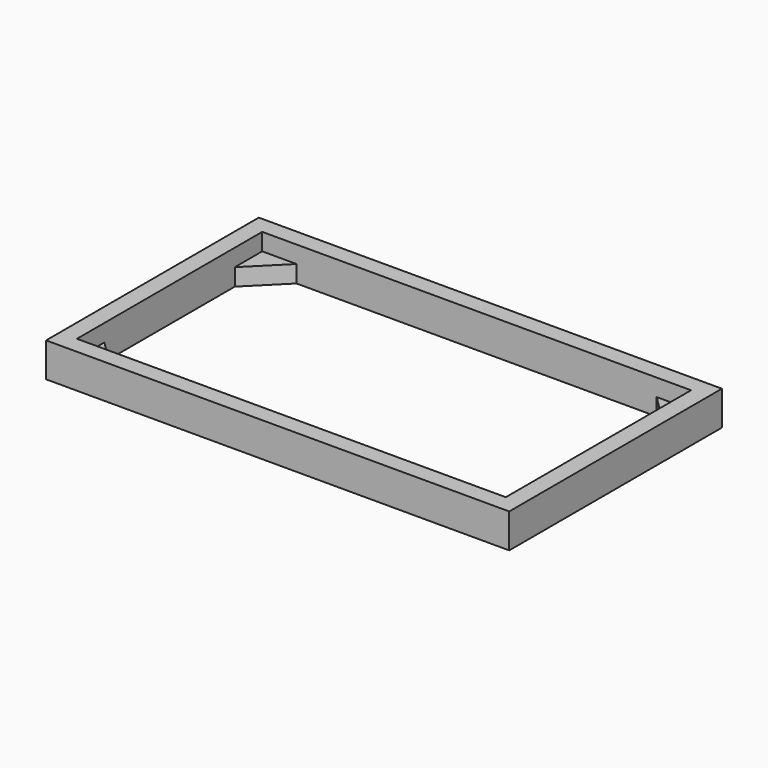
from build123d import *

# Parameters (mm, degrees)
SKETCH_W     = 54
SKETCH_H     = 31
SKETCH_W_2   = 50
SKETCH_H_2   = 27
PAD_DEPTH    = 4
PAD001_DEPTH = 2
PAD002_DEPTH = 2
PAD003_DEPTH = 2
PAD004_DEPTH = 2


with BuildPart() as part:
    # Sketch → Pad (new body)
    with BuildSketch(Plane.XY):
        with Locations((27, 15.5)):
            Rectangle(SKETCH_W, SKETCH_H)
        with Locations((27, 15.5)):
            Rectangle(SKETCH_W_2, SKETCH_H_2, mode=Mode.SUBTRACT)
    extrude(amount=PAD_DEPTH)

    # Sketch001 → Pad001 (join)
    with BuildSketch(Plane.XY):
        Polygon((2, 6), (6, 2), (2, 2), align=None)
    extrude(amount=PAD001_DEPTH)

    # Sketch002 → Pad002 (join)
    with BuildSketch(Plane.XY):
        Polygon((48, 29), (52, 25), (52, 29), align=None)
    extrude(amount=PAD002_DEPTH)

    # Sketch003 → Pad003 (join)
    with BuildSketch(Plane.XY):
        Polygon((2, 25), (6, 29), (2, 29), align=None)
    extrude(amount=PAD003_DEPTH)

    # Sketch004 → Pad004 (join)
    with BuildSketch(Plane.XY):
        Polygon((52, 6), (48, 2), (52, 2), align=None)
    extrude(amount=PAD004_DEPTH)


solid = part.part
